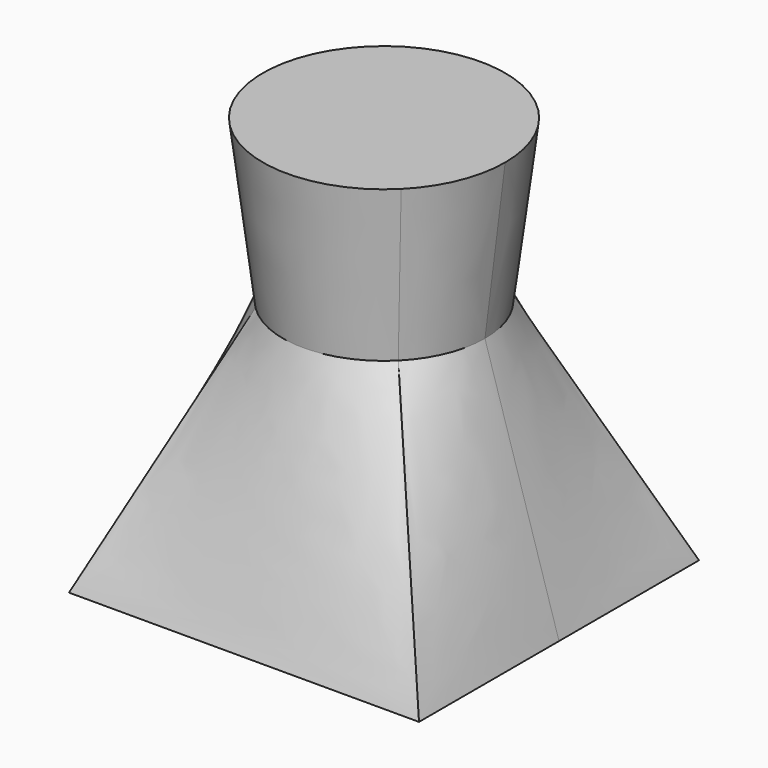
from build123d import *

# Parameters (mm, degrees)
F0_W = 26
F0_H = 26
F3_R = 7.5
F4_R = 9


with BuildPart() as f5:
    # F0 (on Top) → F5 section 0
    with BuildSketch(Plane.XY):
        Rectangle(F0_W, F0_H)
    # F3 (on offset) → F5 section 1
    with BuildSketch(Plane.XY.offset(18)):
        Circle(F3_R)
    loft()

    # F5_face (on face) → F6 section 0
    with BuildSketch(Plane.XY.offset(18)):
        with BuildLine():
            ThreePointArc((5.3033008589, -5.3033008589), (6.9290964938, -2.8701257427), (7.5, 0))
            ThreePointArc((7.5, 0), (6.9290964938, 2.8701257427), (5.3033008589, 5.3033008589))
            ThreePointArc((5.3033008589, 5.3033008589), (0, 7.5), (-5.3033008589, 5.3033008589))
            ThreePointArc((-5.3033008589, 5.3033008589), (-7.5, 0), (-5.3033008589, -5.3033008589))
            ThreePointArc((-5.3033008589, -5.3033008589), (0, -7.5), (5.3033008589, -5.3033008589))
        make_face()
    # F4 (on offset) → F6 section 1
    with BuildSketch(Plane.XY.offset(30)):
        Circle(F4_R)
    loft()


solid = f5.part
